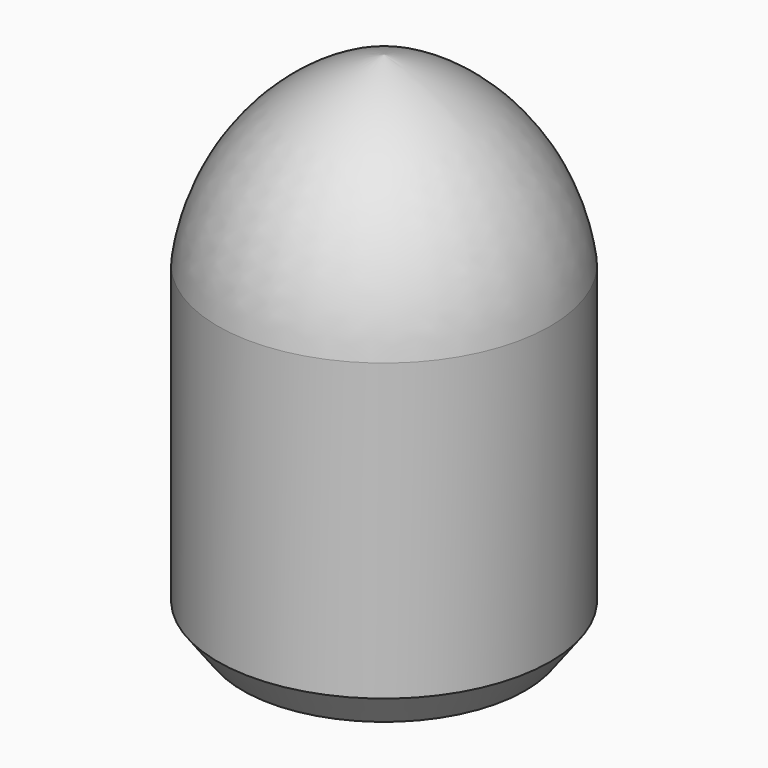
from build123d import *

# Parameters (mm, degrees)
F2_R     = 5.2705
F3_DEPTH = 20.32
F4_R     = 5.08


with BuildPart() as f1:
    # F0 (on Front) → F1 (revolve)
    with BuildSketch(Plane.XZ):
        with BuildLine():
            Line((-0.663188, 20.113392), (-0.663188, -5.286608))
            Line((-0.663188, -5.286608), (6.321812, -5.286608))
            Line((6.321812, -5.286608), (7.559299, -3.626685))
            Line((7.559299, -3.626685), (7.559299, 10.97362))
            ThreePointArc((7.559299, 10.97362), (4.879851, 16.831603), (-0.663188, 20.113392))
        make_face()
    revolve(axis=Axis((-0.663188, 0, 7.413392), (0, 0, 1)))

    # F2 (on face) → F3 (cut)
    with BuildSketch(Plane(origin=(0, 0, -5.286608), x_dir=(1, 0, 0), z_dir=(0, 0, -1))):
        with Locations((-0.663188, 0)):
            Circle(F2_R)
    extrude(amount=-F3_DEPTH, mode=Mode.SUBTRACT)

    # F4
    f4_edges = [f1.edges().sort_by_distance(p)[0] for p in [
        (-5.933688, 0, 15.033392),
    ]]
    fillet(f4_edges, radius=F4_R)


solid = f1.part
